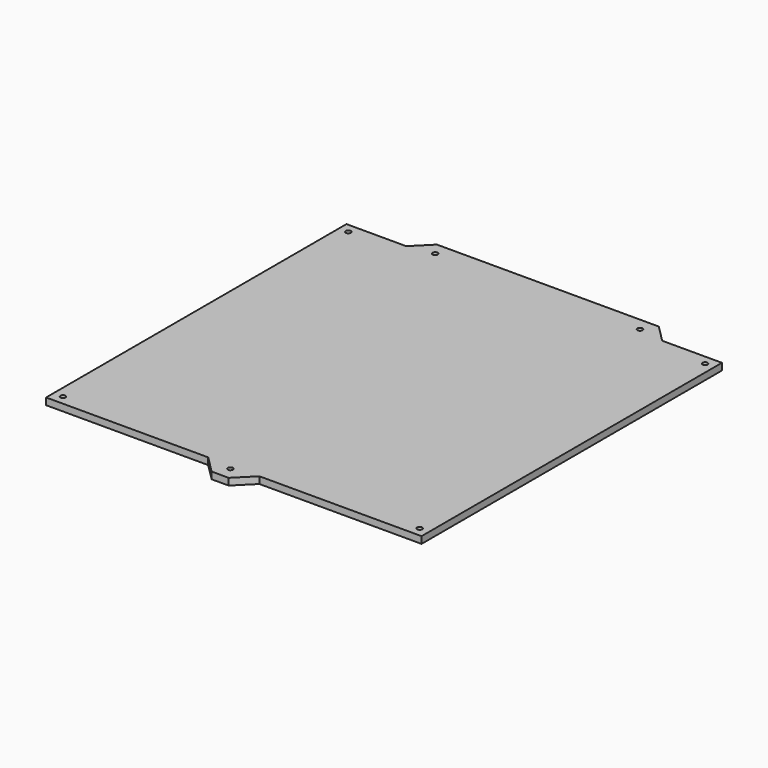
from build123d import *

# Parameters (mm, degrees)
F0_R     = 1.5
F1_DEPTH = 4


with BuildPart() as f1:
    # F0 (on Top) → F1 (new body)
    with BuildSketch(Plane.XY):
        Polygon((-75, 110), (-110, 110), (-110, -110), (-15, -110), (-5, -120), (0, -120), (5, -120), (15, -110), (110, -110), (110, 110), (75, 110), (65, 120), (0, 120), (-65, 120), align=None)
        with Locations((-104.5, -104.5)):
            Circle(F0_R, mode=Mode.SUBTRACT)
        with Locations((0, -112.5)):
            Circle(F0_R, mode=Mode.SUBTRACT)
        with Locations((104.5, -104.5)):
            Circle(F0_R, mode=Mode.SUBTRACT)
        with Locations((-104.5, 104.5)):
            Circle(F0_R, mode=Mode.SUBTRACT)
        with Locations((-60, 112.5)):
            Circle(F0_R, mode=Mode.SUBTRACT)
        with Locations((60, 112.5)):
            Circle(F0_R, mode=Mode.SUBTRACT)
        with Locations((104.5, 104.5)):
            Circle(F0_R, mode=Mode.SUBTRACT)
        Polygon((-75, 110), (-110, 110), (-110, -110), (-15, -110), (-5, -120), (0, -120), (5, -120), (15, -110), (110, -110), (110, 110), (75, 110), (65, 120), (0, 120), (-65, 120), align=None)
        with Locations((-104.5, -104.5)):
            Circle(F0_R, mode=Mode.SUBTRACT)
        with Locations((0, -112.5)):
            Circle(F0_R, mode=Mode.SUBTRACT)
        with Locations((104.5, -104.5)):
            Circle(F0_R, mode=Mode.SUBTRACT)
        with Locations((-104.5, 104.5)):
            Circle(F0_R, mode=Mode.SUBTRACT)
        with Locations((-60, 112.5)):
            Circle(F0_R, mode=Mode.SUBTRACT)
        with Locations((60, 112.5)):
            Circle(F0_R, mode=Mode.SUBTRACT)
        with Locations((104.5, 104.5)):
            Circle(F0_R, mode=Mode.SUBTRACT)
        Polygon((-75, 110), (-110, 110), (-110, -110), (-15, -110), (-5, -120), (0, -120), (5, -120), (15, -110), (110, -110), (110, 110), (75, 110), (65, 120), (0, 120), (-65, 120), align=None)
        with Locations((-104.5, -104.5)):
            Circle(F0_R, mode=Mode.SUBTRACT)
        with Locations((0, -112.5)):
            Circle(F0_R, mode=Mode.SUBTRACT)
        with Locations((104.5, -104.5)):
            Circle(F0_R, mode=Mode.SUBTRACT)
        with Locations((-104.5, 104.5)):
            Circle(F0_R, mode=Mode.SUBTRACT)
        with Locations((-60, 112.5)):
            Circle(F0_R, mode=Mode.SUBTRACT)
        with Locations((60, 112.5)):
            Circle(F0_R, mode=Mode.SUBTRACT)
        with Locations((104.5, 104.5)):
            Circle(F0_R, mode=Mode.SUBTRACT)
    extrude(amount=F1_DEPTH)


solid = f1.part
